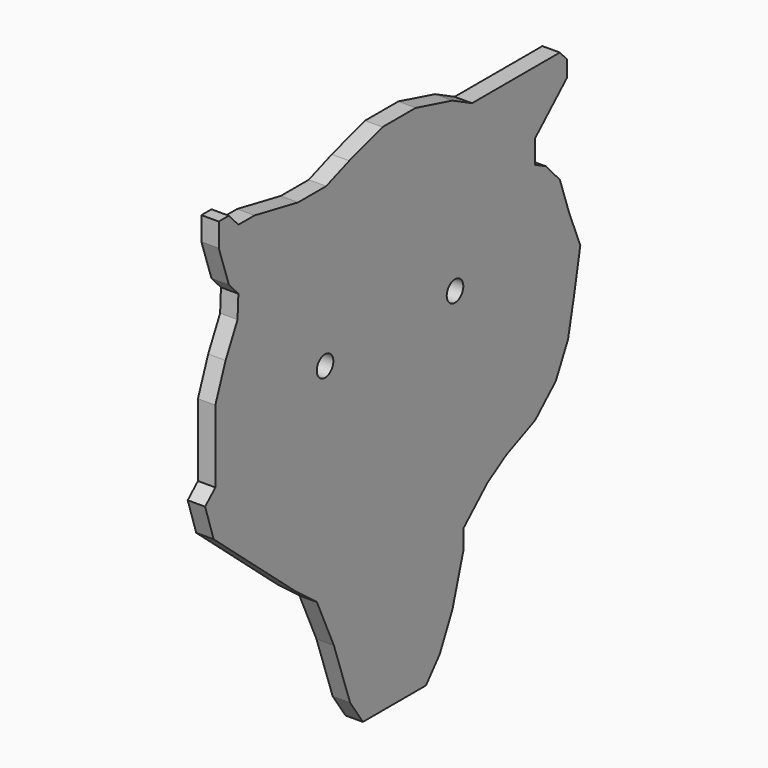
from build123d import *

# Parameters (mm, degrees)
F1_DEPTH = 4.2
F3_D     = 5
F3_DEPTH = 12


with BuildPart() as f1:
    # F0 (on Right) → F1 (new body)
    with BuildSketch(Plane.YZ):
        Polygon((-46.670854, 44.319186), (-46.927813, 38.92304), (-50.525237, 31.728189), (-53.608745, 23.505505), (-53.608745, 17.595448), (-53.608745, 10.657554), (-53.608745, 6.032293), (-56.692254, 3.205744), (-54.122664, -4.759984), (-29.454602, -25.830621), (-23.030626, -30.712841), (-17.891448, -42.019036), (-13.009225, -56.151781), (-9.154841, -61.804876), (-3.244784, -61.804876), (3.693108, -61.804876), (9.860124, -61.804876), (13.97147, -56.922659), (17.825851, -48.956931), (21.166321, -37.650734), (21.166321, -33.025473), (28.361171, -26.344538), (34.01427, -22.747112), (42.750873, -18.892728), (49.009407, -13.081229), (52.679341, -5.741356), (54.570988, 3.205744), (56.369703, 12.713227), (53.029235, 20.935914), (50.202683, 29.158602), (45.956173, 33.731764), (42.754392, 35.332654), (42.754392, 38.409129), (42.754392, 40.978711), (46.921574, 44.84824), (52.35221, 49.890975), (52.35221, 53.826664), (50.202683, 56.141538), (42.754392, 56.141538), (32.215554, 56.141538), (23.735909, 56.141538), (17.825851, 59.096566), (6.776613, 62.049348), (3.693108, 62.049348), (-3.244784, 62.049348), (-13.266183, 58.965843), (-20.204078, 56.396253), (-28.683724, 56.396253), (-41.78863, 58.965843), (-46.670854, 58.965843), (-49.53411, 62.049348), (-52.580908, 62.049348), (-52.580908, 56.396253), (-49.53411, 47.402691), align=None)
    extrude(amount=F1_DEPTH)

    # F3
    with Locations(Plane.YZ.offset(4.2)):
        with Locations((-20.545784, 18.379813), (18.616695, 18.379813)):
            Hole(F3_D / 2, depth=F3_DEPTH)


solid = f1.part
